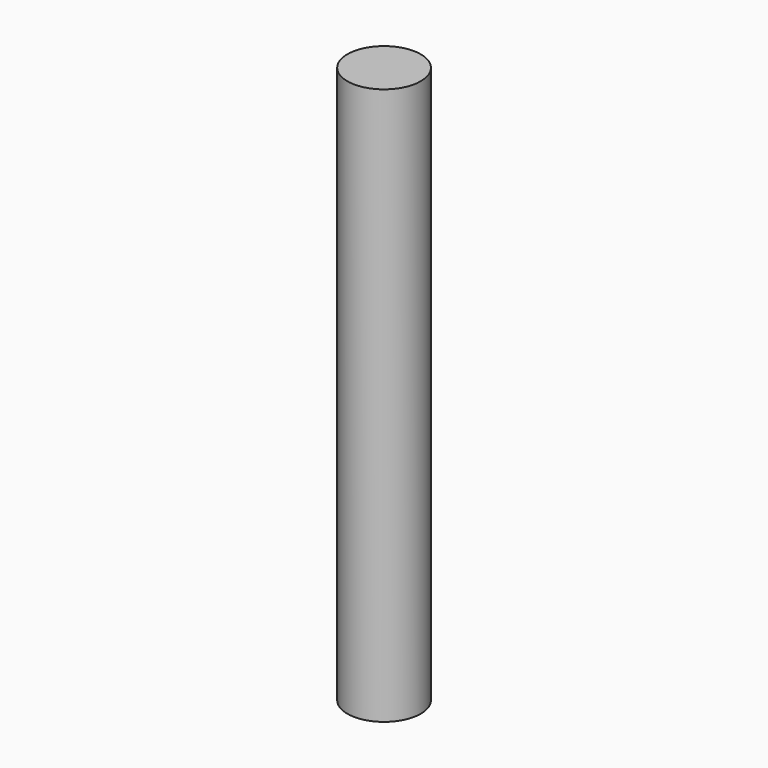
from build123d import *

# Parameters (mm, degrees)
CYLINDER_R     = 2.5
CYLINDER_DEPTH = 38


with BuildPart() as part:
    # Cylinder → Cylinder (new body)
    with BuildSketch(Plane.XY):
        Circle(CYLINDER_R)
    extrude(amount=CYLINDER_DEPTH)


solid = part.part
